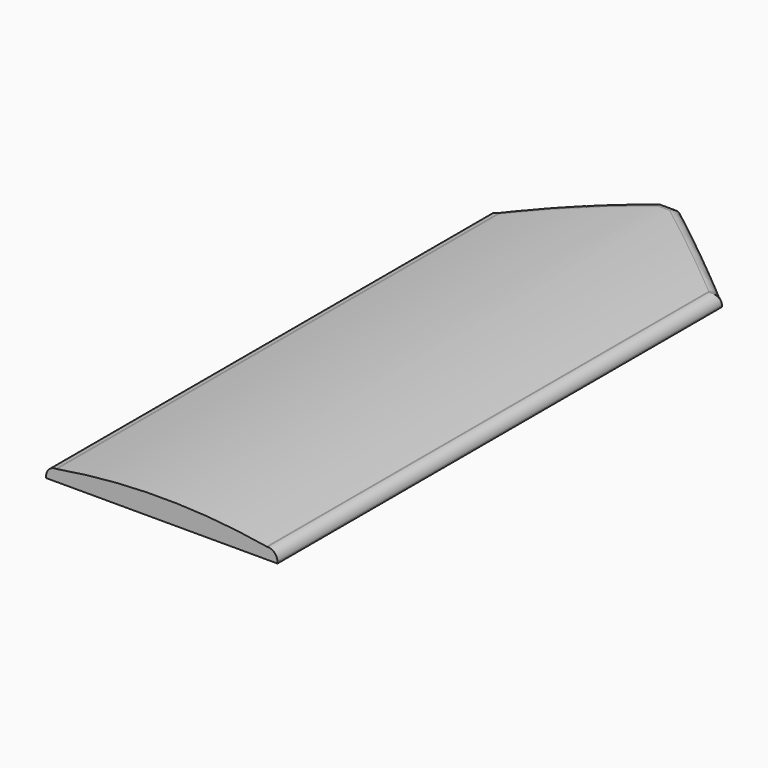
from build123d import *

# Parameters (mm, degrees)
F1_DEPTH = 203.2
F3_DEPTH = 6451.6
F4_R     = 98.425


with BuildPart() as f1:
    # F0 (on Top) → F1 (new body)
    with BuildSketch(Plane.XY):
        Polygon((-1190.1054440712, -3781.489954734), (1121.2945559288, -3781.489954734), (1121.2945559288, 1768.410045266), (60.1390003732, 2581.210045266), (-128.9498885157, 2581.210045266), (-1190.1054440712, 1768.410045266), align=None)
    extrude(amount=F1_DEPTH)

    # F2 (on face) → F3 (cut)
    with BuildSketch(Plane.XZ.offset(3781.489954734)):
        with BuildLine():
            ThreePointArc((-34.4054247497, 203.2), (491.3519412759, 180.935141609), (1013.3445559288, 114.3000000001))
            Line((1013.3445559287, 114.3), (1121.2945559288, 114.3))
            Line((1121.2945559288, 114.3), (1121.2945559288, 203.2))
            Line((1121.2945559288, 203.2), (-34.4054247497, 203.2))
        make_face()
        with BuildLine():
            ThreePointArc((-1082.1554440713, 114.3000000001), (-560.162810166, 180.9351432425), (-34.4054247497, 203.2))
            Line((-34.4054247497, 203.2), (-1190.1054440712, 203.2))
            Line((-1190.1054440712, 203.2), (-1190.1054440712, 114.3000000001))
            Line((-1190.1054440712, 114.3000000001), (-1082.1554440712, 114.3000000001))
        make_face()
    extrude(amount=-F3_DEPTH, mode=Mode.SUBTRACT)

    # F4
    f4_edges = [f1.edges().sort_by_distance(p)[0] for p in [
        (1121.294556, -1006.539955, 114.3),
        (537.816704, 2215.329251, 176.817097),
        (-606.627592, 2215.329251, 176.817097),
        (1067.319556, 1809.752598, 114.3),
        (-1136.130444, 1809.752598, 114.3),
        (-1190.105444, -1006.539955, 114.3),
        (-34.405444, 2581.210045, 203.2),
    ]]
    fillet(f4_edges, radius=F4_R)


solid = f1.part
